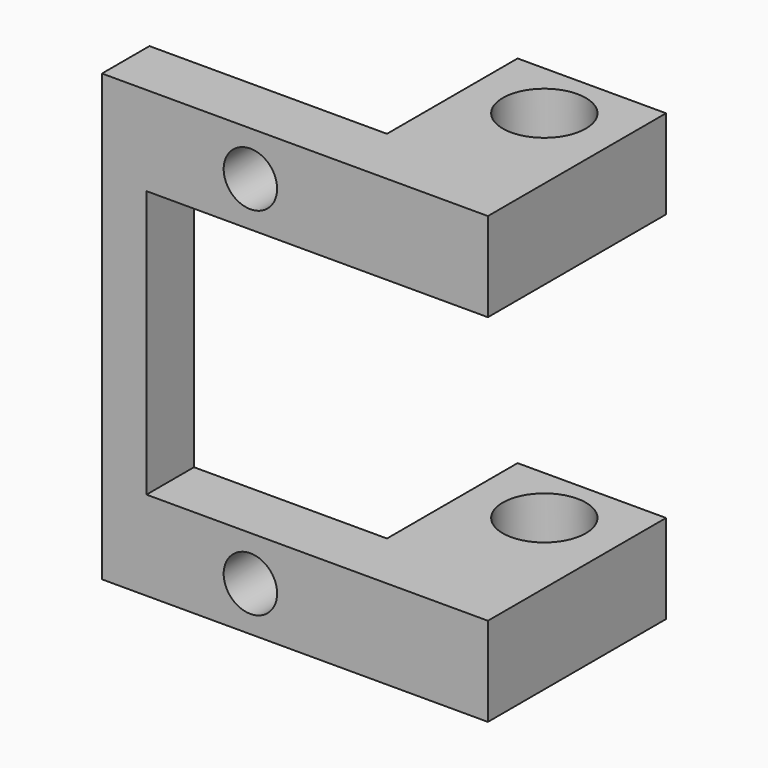
from build123d import *

# Parameters (mm, degrees)
PAD_DEPTH       = 30
SKETCH001_R     = 1.8
SKETCH001_W     = 29.168577
SKETCH001_H     = 18
POCKET_DEPTH    = 15.001
SKETCH002_R     = 2.8
POCKET001_DEPTH = 30.001


with BuildPart() as part:
    # Sketch → Pad (new body)
    with BuildSketch(Plane.XY):
        Polygon((-10, 4), (-26, 4), (-26, 0), (0, 0), (0, 15), (-10, 15), align=None)
    extrude(amount=PAD_DEPTH)

    # Sketch001 → Pocket (cut, through all)
    with BuildSketch(Plane.XZ):
        with Locations((-16, 27)):
            Circle(SKETCH001_R)
        with Locations((-16, 3)):
            Circle(SKETCH001_R)
        with Locations((-8.415712, 15)):
            Rectangle(SKETCH001_W, SKETCH001_H)
    extrude(amount=-POCKET_DEPTH, mode=Mode.SUBTRACT)

    # Sketch002 → Pocket001 (cut, through all)
    with BuildSketch(Plane.XY.offset(30)):
        with Locations((-5, 11)):
            Circle(SKETCH002_R)
    extrude(amount=-POCKET001_DEPTH, mode=Mode.SUBTRACT)


solid = part.part
